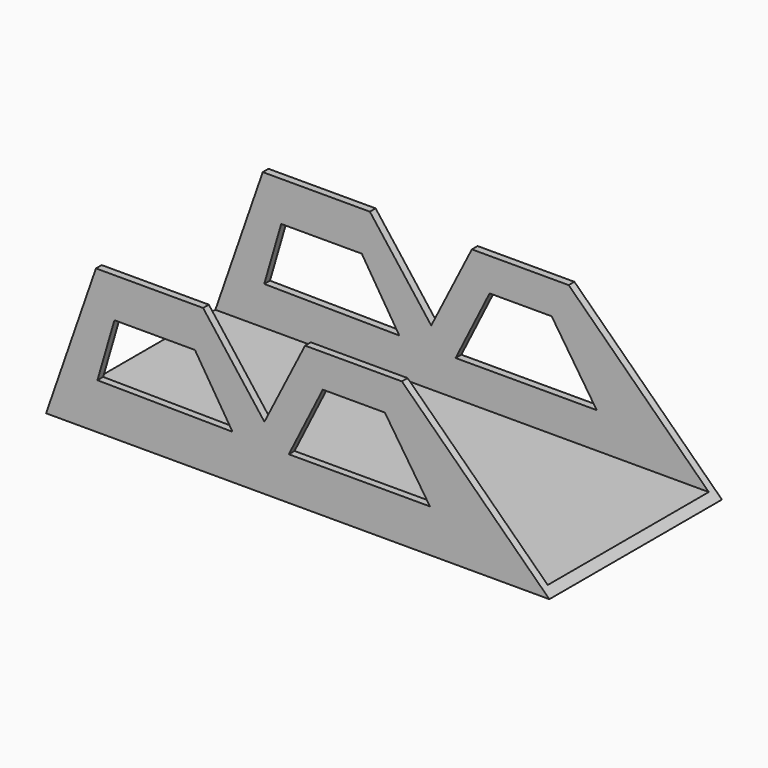
from build123d import *

# Parameters (mm, degrees)
F0_W     = 177.8
F0_H     = 76.2
F1_DEPTH = 50.8
F2_T     = -2.54
F4_DEPTH = 76.201
F6_DEPTH = 76.201
F8_DEPTH = 76.201


with BuildPart() as f1:
    # F0 (on Top) → F1 (new body)
    with BuildSketch(Plane.XY):
        with Locations((23.041371, -18.925695)):
            Rectangle(F0_W, F0_H)
    extrude(amount=F1_DEPTH)

    # F2
    f2_openings = [f1.faces().sort_by_distance(p)[0] for p in [
        (23.041371, -18.925695, 50.8),
        (-65.858629, -18.925695, 25.4),
        (111.941371, -18.925695, 25.4),
    ]]
    offset(amount=F2_T, openings=f2_openings)

    # F3 (on face) → F4 (cut, through all)
    with BuildSketch(Plane.XZ.offset(57.025695)):
        Polygon((-74.445255, 69.43772), (-65.858629, 0), (-48.242956, 50.8), (-10.39157, 50.8), (11.275085, 22.44979), (25.632508, 50.8), (59.82928, 50.8), (111.941371, 0), (111.941371, 69.43772), align=None)
    extrude(amount=-F4_DEPTH, mode=Mode.SUBTRACT)

    # F5 (on face) → F6 (cut, through all)
    with BuildSketch(Plane.XZ.offset(57.025695)):
        Polygon((-41.716851, 36.807209), (-47.720864, 16.18473), (0, 15.662642), (-13.263052, 36.807209), align=None)
    extrude(amount=-F6_DEPTH, mode=Mode.SUBTRACT)

    # F7 (on face) → F8 (cut, through all)
    with BuildSketch(Plane.XZ.offset(57.025695)):
        Polygon((31.897567, 39.156608), (19.889543, 15.140554), (69.74896, 15.140554), (53.82527, 39.156608), align=None)
    extrude(amount=-F8_DEPTH, mode=Mode.SUBTRACT)


solid = f1.part
